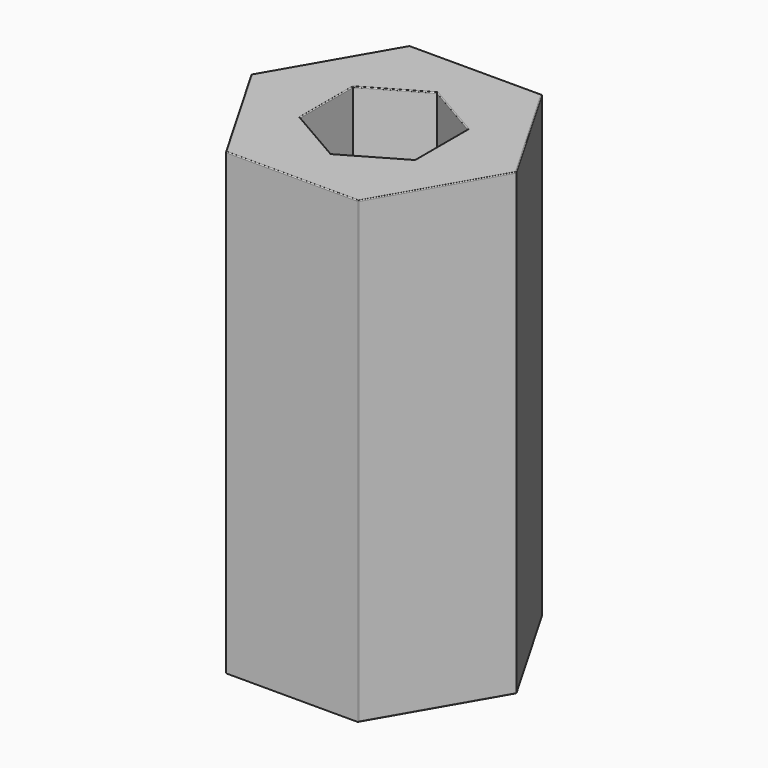
from build123d import *

# Parameters (mm, degrees)
F1_DEPTH = 100
F2_R     = 0.2


with BuildPart() as f1:
    # F0 (on Top) → F1 (new body)
    with BuildSketch(Plane.XY):
        Polygon((14.433757, -25), (28.867513, 0), (14.433757, 25), (-14.433757, 25), (-28.867513, 0), (-14.433757, -25), align=None)
        Polygon((-12.5, 7.216878), (0, 14.433757), (12.5, 7.216878), (12.5, -7.216878), (0, -14.433757), (-12.5, -7.216878), align=None, mode=Mode.SUBTRACT)
    extrude(amount=F1_DEPTH)

    # F2
    f2_edges = [f1.edges().sort_by_distance(p)[0] for p in [
        (-21.650635, -12.5, 100),
        (0, -25, 100),
        (21.650635, -12.5, 100),
        (21.650635, 12.5, 100),
        (0, 25, 100),
        (-21.650635, 12.5, 100),
        (-12.5, 0, 100),
        (-6.25, 10.825318, 100),
        (6.25, 10.825318, 100),
        (12.5, 0, 100),
        (6.25, -10.825318, 100),
        (-6.25, -10.825318, 100),
        (14.433757, -25, 50),
        (28.867513, 0, 50),
        (21.650635, -12.5, 0),
        (14.433757, 25, 50),
        (21.650635, 12.5, 0),
        (-14.433757, 25, 50),
        (0, 25, 0),
        (-28.867513, 0, 50),
        (-21.650635, 12.5, 0),
        (-14.433757, -25, 50),
        (-21.650635, -12.5, 0),
    ]]
    fillet(f2_edges, radius=F2_R)


solid = f1.part
